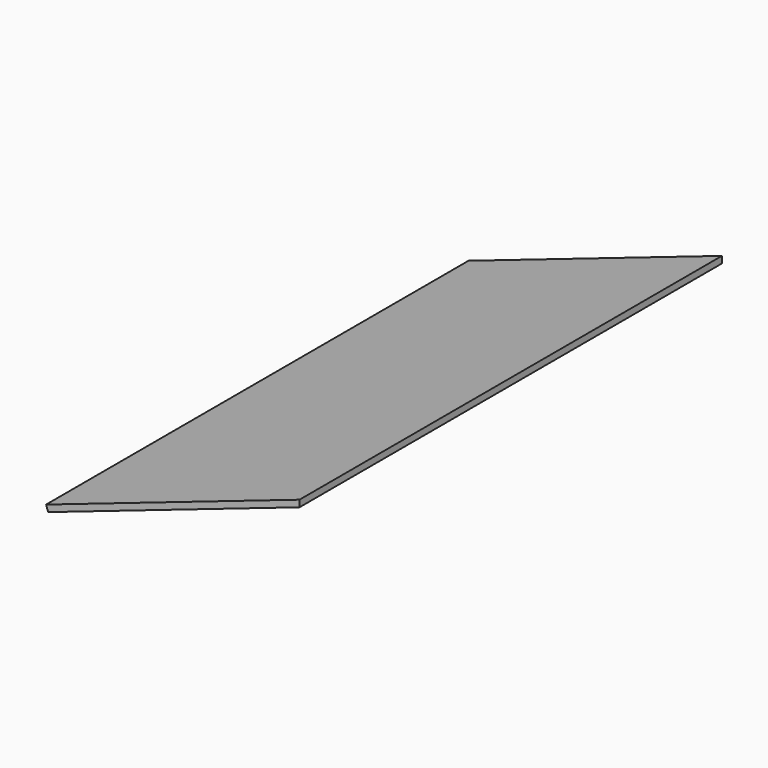
from build123d import *

# Parameters (mm, degrees)
F1_DEPTH      = 12
F2_DEPTH      = 100
F2_DEPTH_BACK = 900


with BuildPart() as f1:
    # F0 (on Front) → F1 (new body)
    with BuildSketch(Plane.XZ):
        Polygon((-480, 328.472265), (-476.115748, 317.118297), (0, 480), (0, 492.682791), align=None)
    extrude(amount=F1_DEPTH)

    # F0 (on Front) → F2 (join, two sides)
    with BuildSketch(Plane.XZ) as f2_sk:
        Polygon((-480, 328.472265), (-476.115748, 317.118297), (0, 480), (0, 492.682791), align=None)
    extrude(amount=F2_DEPTH)
    extrude(f2_sk.sketch, amount=-F2_DEPTH_BACK)


solid = f1.part
